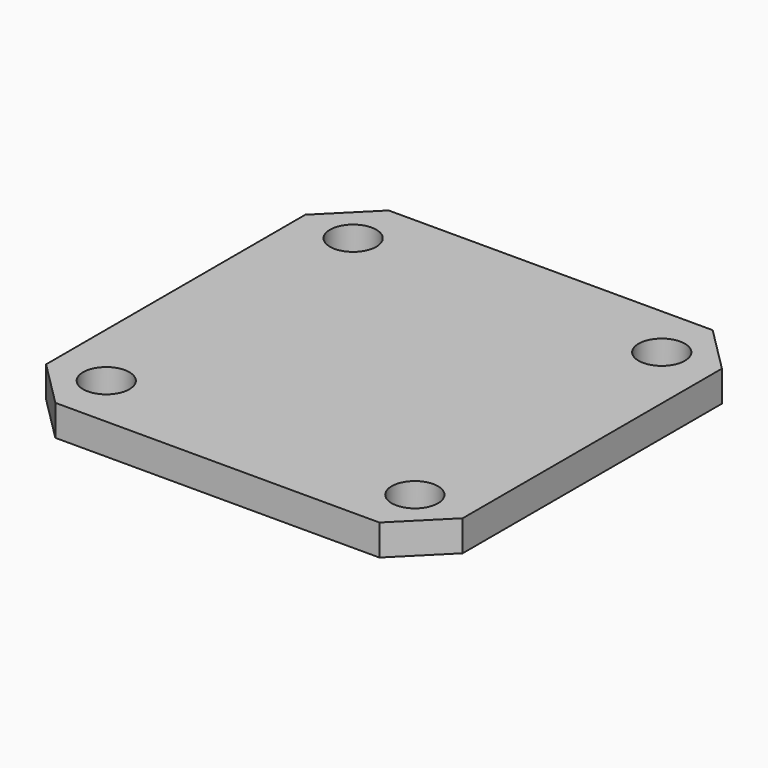
from build123d import *

# Parameters (mm, degrees)
F0_W     = 27
F0_H     = 27
F0_R     = 1.5
F1_DEPTH = 2
F2_SIZE  = 3


with BuildPart() as f1:
    # F0 (on Top) → F1 (new body)
    with BuildSketch(Plane.XY):
        Rectangle(F0_W, F0_H)
        with Locations((-10, -10)):
            Circle(F0_R, mode=Mode.SUBTRACT)
        with Locations((10, -10)):
            Circle(F0_R, mode=Mode.SUBTRACT)
        with Locations((-10, 10)):
            Circle(F0_R, mode=Mode.SUBTRACT)
        with Locations((10, 10)):
            Circle(F0_R, mode=Mode.SUBTRACT)
    extrude(amount=F1_DEPTH)

    # F2
    f2_edges = [f1.edges().sort_by_distance(p)[0] for p in [
        (13.5, -13.5, 1),
        (-13.5, -13.5, 1),
        (13.5, 13.5, 1),
        (-13.5, 13.5, 1),
    ]]
    chamfer(f2_edges, length=F2_SIZE)


solid = f1.part
